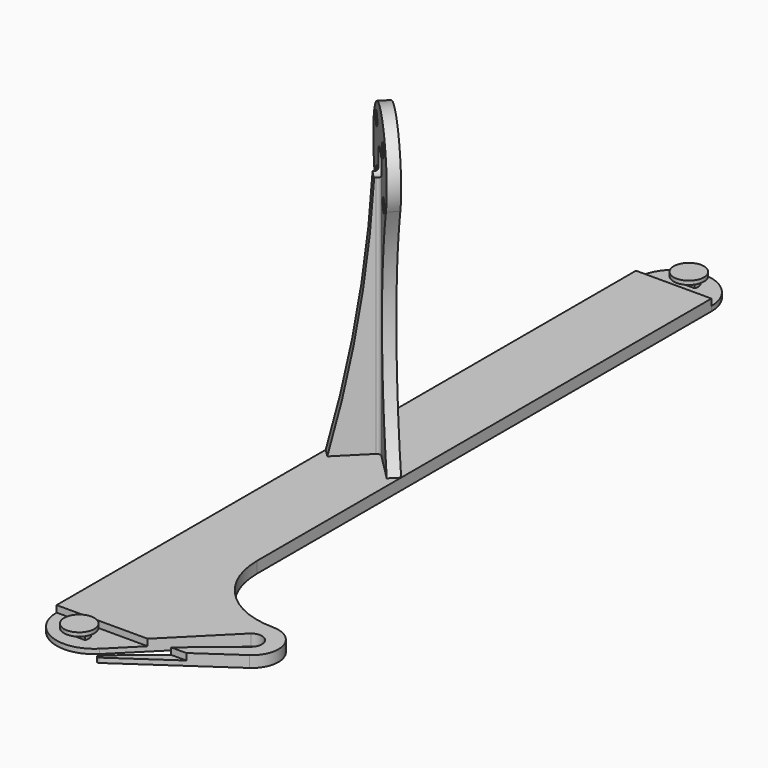
from build123d import *

# Parameters (mm, degrees)
PAD_DEPTH       = 3
SKETCH001_R     = 2.5
POCKET_DEPTH    = 1.75
SKETCH002_W     = 40.796986
SKETCH002_H     = 14.7225289338
SKETCH002_R     = 2.5
POCKET001_DEPTH = 1.75
PAD001_DEPTH    = 80
SKETCH004_R     = 3.25
SKETCH004_R_2   = 1.75
POCKET002_DEPTH = 10
POCKET003_DEPTH = 10
SKETCH006_W     = 28.387858
SKETCH006_H     = 15.2811819657
POCKET004_DEPTH = 5
POCKET005_DEPTH = 1.75
SKETCH009_R     = 4
PAD002_DEPTH    = 1
POCKET006_DEPTH = 1.75
SKETCH011_R     = 4
PAD003_DEPTH    = 1


with BuildPart() as part:
    # Sketch → Pad (new body)
    with BuildSketch(Plane.XY):
        with BuildLine():
            Line((69.8529072407, 90.3022552924), (69.8529072407, -60.2396425339))
            ThreePointArc((69.8529072407, -60.2396425339), (76.0694675014, -75.2477458977), (91.0775708651, -81.4643061584))
            ThreePointArc((95.0544059368, -94.2525047463), (97.7737123274, -86.3944117953), (91.0775708651, -81.4643061584))
            Line((69.323459293, -111.9691907389), (95.0544059368, -94.2525047464))
            ThreePointArc((68.7209640656, -111.1710682539), (68.6401936472, -111.8585113494), (69.323459293, -111.9691907389))
            Line((68.7209640656, -111.1710682539), (92.8224674077, -91.2688103099))
            ThreePointArc((92.8224674077, -91.2688103099), (93.4277261515, -87.0695649029), (89.2284807399, -86.4643061907))
            Line((66.9239707498, -108.7688161808), (89.2284807722, -86.4643061584))
            ThreePointArc((49.8529072407, -101.697743289), (56.0260697472, -110.9365380783), (66.9239707498, -108.7688161808))
            Line((49.8529072407, -101.697743289), (49.8529072407, 90.3022566385))
            ThreePointArc((69.8529072407, 90.3022552924), (59.8529079137, 100.3022559338), (49.8529072407, 90.3022566385))
        make_face()
    extrude(amount=PAD_DEPTH)

    # Sketch001 → Pocket (cut)
    with BuildSketch(Plane.XY.offset(3)):
        with BuildLine():
            ThreePointArc((69.8529072407, 90.3022552924), (59.8529079137, 100.3022559338), (49.8529072407, 90.3022566385))
            Line((49.8529072407, 90.3022566385), (69.8529072407, 90.3022552924))
        make_face()
        with Locations((59.8529072407, 95.3022559338)):
            Circle(SKETCH001_R, mode=Mode.SUBTRACT)
    extrude(amount=-POCKET_DEPTH, mode=Mode.SUBTRACT)

    # Sketch002 → Pocket001 (cut)
    with BuildSketch(Plane.XY.offset(3)):
        with Locations((66.517767, -109.0590085331)):
            Rectangle(SKETCH002_W, SKETCH002_H)
        with Locations((59.8529072407, -106.6977440662)):
            Circle(SKETCH002_R, mode=Mode.SUBTRACT)
    extrude(amount=-POCKET001_DEPTH, mode=Mode.SUBTRACT)

    # Sketch007 → Pad001 (new body)
    with BuildSketch(Plane.XY.offset(3)):
        with BuildLine():
            Line((51.9742275842, 5.3629168103), (69.8529072407, -12.5157628462))
            Line((69.8529072407, -12.5157628462), (67.7315868971, -14.6370831897))
            Line((67.7315868971, -14.6370831897), (60.5600140219, -7.4655103145))
            ThreePointArc((60.5600140219, -7.4655103145), (59.8529072407, -7.1726170956), (59.1458004595, -7.4655103145))
            Line((51.9742275842, -14.6370831897), (59.1458004595, -7.4655103145))
            Line((49.8529072407, -12.5157628462), (51.9742275842, -14.6370831897))
            Line((49.8529072407, -12.5157628462), (57.0244801159, -5.3441899709))
            ThreePointArc((57.0244801159, -5.3441899709), (57.3173733348, -4.6370831897), (57.0244801159, -3.9299764085))
            Line((57.0244801159, -3.9299764085), (49.8529072407, 3.2415964667))
            Line((49.8529072407, 3.2415964667), (51.9742275842, 5.3629168103))
        make_face()
    extrude(amount=PAD001_DEPTH)

    # Sketch004 → Pocket002 (cut)
    with BuildSketch(Plane(origin=(28.6685721973, 28.6685721973, 0), x_dir=(-0.7071067812, 0.7071067812, 0), z_dir=(0.7071067812, 0.7071067812, 0))):
        with Locations((-45.601309552, 70.3578643763)):
            Circle(SKETCH004_R)
        with Locations((-39.9444553025, 64.7010101268)):
            Circle(SKETCH004_R_2)
        with Locations((-38.8837951307, 77.0753787975)):
            Circle(SKETCH004_R_2)
        with Locations((-51.2581638015, 76.0147186258)):
            Circle(SKETCH004_R_2)
        with Locations((-52.3188239733, 63.640349955)):
            Circle(SKETCH004_R_2)
        with BuildLine():
            Line((-75.5394739283, 92.3788), (-18.7021739283, 92.3788))
            Line((-18.7021739283, 92.3788), (-18.7021739283, 3))
            Line((-18.7021739283, 3), (-32.9591739283, 3))
            ThreePointArc((-34.4737045478, 64.3578643762), (-41.8644390608, 33.4778105333), (-32.9591739283, 3.0000000001))
            ThreePointArc((-34.4737045478, 64.3578643763), (-45.601309552, 83), (-56.7289145562, 64.3578643763))
            ThreePointArc((-58.2434451757, 3.0000000001), (-49.3381806572, 33.4778105485), (-56.7289145562, 64.3578643762))
            Line((-58.2434451757, 3), (-75.5394739283, 3))
            Line((-75.5394739283, 3), (-75.5394739283, 92.3788))
        make_face()
    extrude(amount=-POCKET002_DEPTH, mode=Mode.SUBTRACT)

    # Sketch005 → Pocket003 (cut)
    with BuildSketch(Plane(origin=(33.305655387, -33.305655387, 0), x_dir=(0.7071067812, 0.7071067812, 0), z_dir=(0.7071067812, -0.7071067812, 0))):
        with BuildLine():
            Line((23.5109279915, 83.5), (26.4013479915, 3))
            ThreePointArc((26.4013479915, 3.0000000001), (33.9978224249, 42.6348277252), (36.5434836152, 82.9106964523))
            Line((36.5434836152, 82.9106964523), (36.5434836152, 83.5))
            Line((36.5434836152, 83.5), (23.5109279915, 83.5))
        make_face()
    extrude(amount=-POCKET003_DEPTH, mode=Mode.SUBTRACT)

    # Sketch006 → Pocket004 (cut)
    with BuildSketch(Plane(origin=(26.5472518537, 26.5472518537, 0), x_dir=(0.7071067812, -0.7071067812, 0), z_dir=(-0.7071067812, -0.7071067812, 0))):
        with Locations((45.583672552, 77.9984553591)):
            Rectangle(SKETCH006_W, SKETCH006_H)
    extrude(amount=POCKET004_DEPTH, mode=Mode.SUBTRACT)

    # Sketch008 → Pocket005 (cut)
    with BuildSketch(Plane.XY.offset(3)):
        with BuildLine():
            Line((57.5432084738, 96.2589646702), (62.1626061364, 96.2589643593))
            ThreePointArc((62.1626061364, 96.2589643593), (59.852907409, 97.8022559338), (57.5432084738, 96.2589646702))
        make_face()
        with BuildLine():
            Line((57.543208345, 94.3455475084), (62.1626060076, 94.3455471974))
            ThreePointArc((57.543208345, 94.3455475084), (59.8529070724, 92.8022559338), (62.1626060076, 94.3455471974))
        make_face()
    extrude(amount=-POCKET005_DEPTH, mode=Mode.SUBTRACT)

    # Sketch009 → Pad002 (new body)
    with BuildSketch(Plane.XY.offset(3)):
        with Locations((59.90292, 95.269699)):
            Circle(SKETCH009_R)
    extrude(amount=PAD002_DEPTH)

    # Sketch010 → Pocket006 (cut)
    with BuildSketch(Plane.XY.offset(3)):
        with BuildLine():
            Line((57.5432084094, -105.7410354853), (62.162606072, -105.7410354853))
            ThreePointArc((62.162606072, -105.7410354853), (59.8529072407, -104.1977440662), (57.5432084094, -105.7410354853))
        make_face()
        with BuildLine():
            Line((57.5432084094, -107.6544526471), (62.162606072, -107.6544526471))
            ThreePointArc((57.5432084094, -107.6544526471), (59.8529072407, -109.1977440662), (62.162606072, -107.6544526471))
        make_face()
    extrude(amount=-POCKET006_DEPTH, mode=Mode.SUBTRACT)

    # Sketch011 → Pad003 (new body)
    with BuildSketch(Plane.XY.offset(3)):
        with Locations((59.8529072407, -106.6977440662)):
            Circle(SKETCH011_R)
    extrude(amount=PAD003_DEPTH)


solid = part.part
